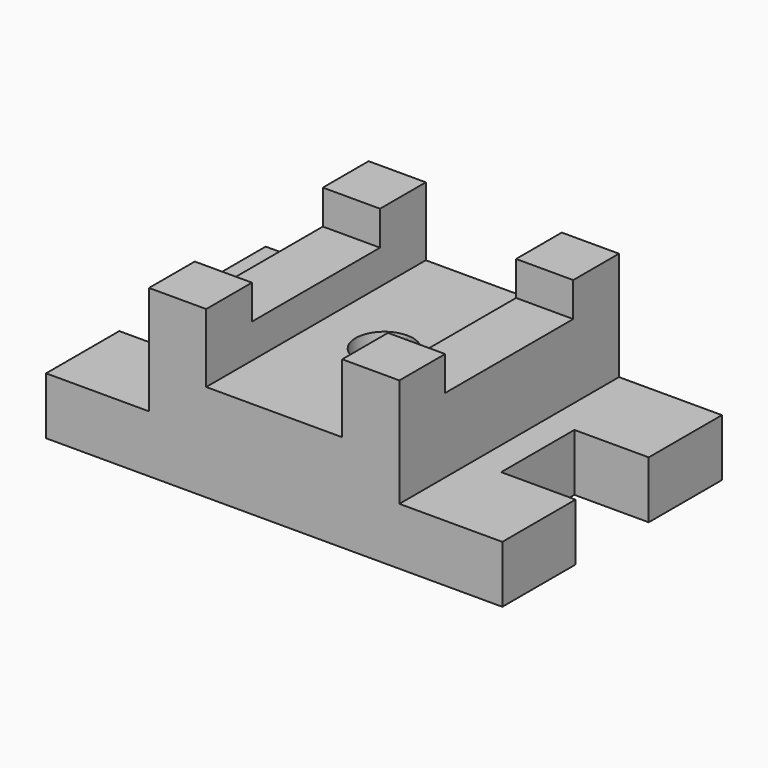
from build123d import *

# Parameters (mm, degrees)
F1_DEPTH = 31.75
F0_W     = 31.75
F0_H     = 31.75
F2_DEPTH = 92.075
F0_H_2   = 88.9
F3_DEPTH = 73.025
F4_DEPTH = 53.975
F5_SCALE = 0.5


with BuildPart() as f1:
    # F0 (on Top) → F1 (new body)
    with BuildSketch(Plane.XY):
        Polygon((126.6564279795, 76.0030429602), (69.5064279795, 76.0030429602), (69.5064279795, 44.2530429602), (69.5064279795, -44.6469570398), (69.5064279795, -76.3969570398), (126.6564279795, -76.3969570398), (126.6564279795, -25.5969570398), (85.3814279795, -25.5969570398), (85.3814279795, 25.2030429602), (126.6564279795, 25.2030429602), align=None)
    extrude(amount=F1_DEPTH)

    # F0 (on Top) → F2 (join)
    with BuildSketch(Plane.XY):
        with Locations((53.6314279795, 60.1280429602)):
            Rectangle(F0_W, F0_H)
        with Locations((53.6314279795, -60.5219570398)):
            Rectangle(F0_W, F0_H)
    extrude(amount=F2_DEPTH)

    # F0 (on Top) → F3 (join)
    with BuildSketch(Plane.XY):
        with Locations((53.6314279795, -0.1969570398)):
            Rectangle(F0_W, F0_H_2)
    extrude(amount=F3_DEPTH)



with BuildPart() as f1b:
    # F0 (on Top) → F1, piece 2 (new body)
    with BuildSketch(Plane.XY):
        Polygon((-69.5064279795, 76.0030429602), (-126.6564279795, 76.0030429602), (-126.6564279795, 25.2030429602), (-85.3814279795, 25.2030429602), (-85.3814279795, -25.5969570398), (-126.6564279795, -25.5969570398), (-126.6564279795, -76.3969570398), (-69.5064279795, -76.3969570398), (-69.5064279795, -44.6469570398), (-69.5064279795, 44.2530429602), align=None)
    extrude(amount=F1_DEPTH)

    # F0 (on Top) → F2, piece 2 (join)
    with BuildSketch(Plane.XY):
        with Locations((-53.6314279795, 60.1280429602)):
            Rectangle(F0_W, F0_H)
        with Locations((-53.6314279795, -60.5219570398)):
            Rectangle(F0_W, F0_H)
    extrude(amount=F2_DEPTH)

    # F0 (on Top) → F3, piece 2 (join)
    with BuildSketch(Plane.XY):
        with Locations((-53.6314279795, -0.1969570398)):
            Rectangle(F0_W, F0_H_2)
    extrude(amount=F3_DEPTH)


with BuildPart() as f1_1:
    add(f1.part)

    add(f1b.part)  # F4 merges F1b
    # F0 (on Top) → F4 (join)
    with BuildSketch(Plane.XY):
        with BuildLine():
            Line((37.7564279795, 76.0030429602), (0, 76.0030429602))
            Line((0, 76.0030429602), (0, 15.875))
            ThreePointArc((0, 15.875), (11.2253201513, 11.2253201513), (15.875, 0))
            ThreePointArc((15.875, 0), (11.2253201513, -11.2253201513), (0, -15.875))
            Line((0, -15.875), (0, -76.3969570398))
            Line((0, -76.3969570398), (37.7564279795, -76.3969570398))
            Line((37.7564279795, -76.3969570398), (37.7564279795, -44.6469570398))
            Line((37.7564279795, -44.6469570398), (37.7564279795, 44.2530429602))
            Line((37.7564279795, 44.2530429602), (37.7564279795, 76.0030429602))
        make_face()
        with BuildLine():
            Line((0, 76.0030429602), (-37.7564279795, 76.0030429602))
            Line((-37.7564279795, 76.0030429602), (-37.7564279795, 44.2530429602))
            Line((-37.7564279795, 44.2530429602), (-37.7564279795, -44.6469570398))
            Line((-37.7564279795, -44.6469570398), (-37.7564279795, -76.3969570398))
            Line((-37.7564279795, -76.3969570398), (0, -76.3969570398))
            Line((0, -76.3969570398), (0, -15.875))
            ThreePointArc((0, -15.875), (-15.875, 0), (0, 15.875))
            Line((0, 15.875), (0, 76.0030429602))
        make_face()
    extrude(amount=F4_DEPTH)


with BuildPart() as f1_2:
    # F5: moved
    add(f1_1.part.scale(F5_SCALE))


solid = f1_2.part
